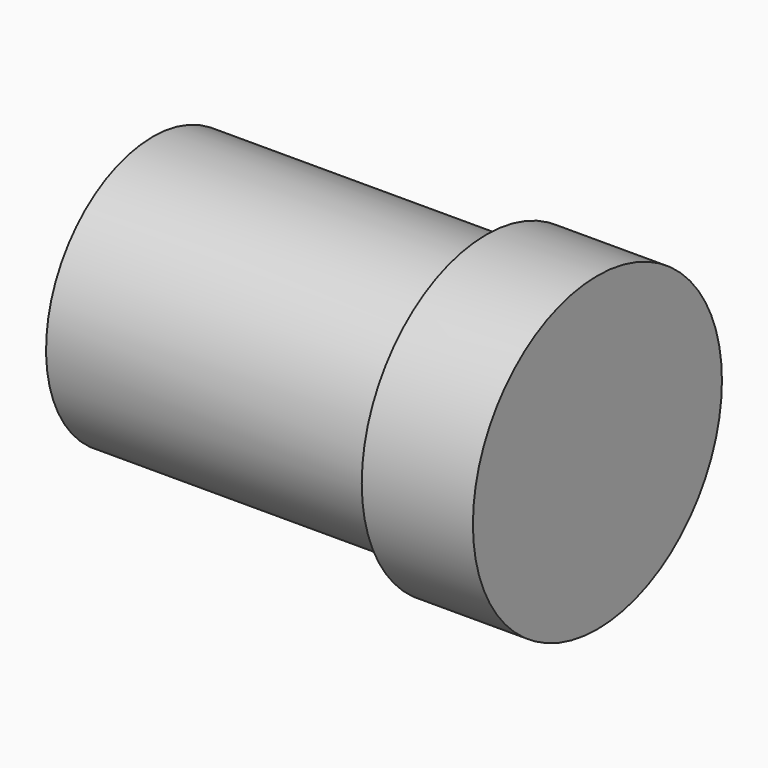
from build123d import *

# Parameters (mm, degrees)
CYLINDER071_R             = 7
CYLINDER071_DEPTH         = 5
CYLINDER070_R             = 6
CYLINDER070_DEPTH         = 20
FUSION022_PLACEMENT_ANGLE = 90


with BuildPart() as cylinder071:
    # Cylinder071 → Cylinder071 (new body)
    with BuildSketch(Plane.XY):
        Circle(CYLINDER071_R)
    extrude(amount=CYLINDER071_DEPTH)


with BuildPart() as powerswitch001:
    # Cylinder070 → Cylinder070 (new body)
    with BuildSketch(Plane.XY):
        Circle(CYLINDER070_R)
    extrude(amount=CYLINDER070_DEPTH)

    # Fusion022: union Cylinder071
    add(cylinder071.part)


with BuildPart() as powerswitch001_1:
    # Fusion022 placement: moved
    add(powerswitch001.part.moved(Location((71, 7.5, 14))).rotate(Axis((71, 7.5, 14), (0, -1, 0)), FUSION022_PLACEMENT_ANGLE))


solid = powerswitch001_1.part
